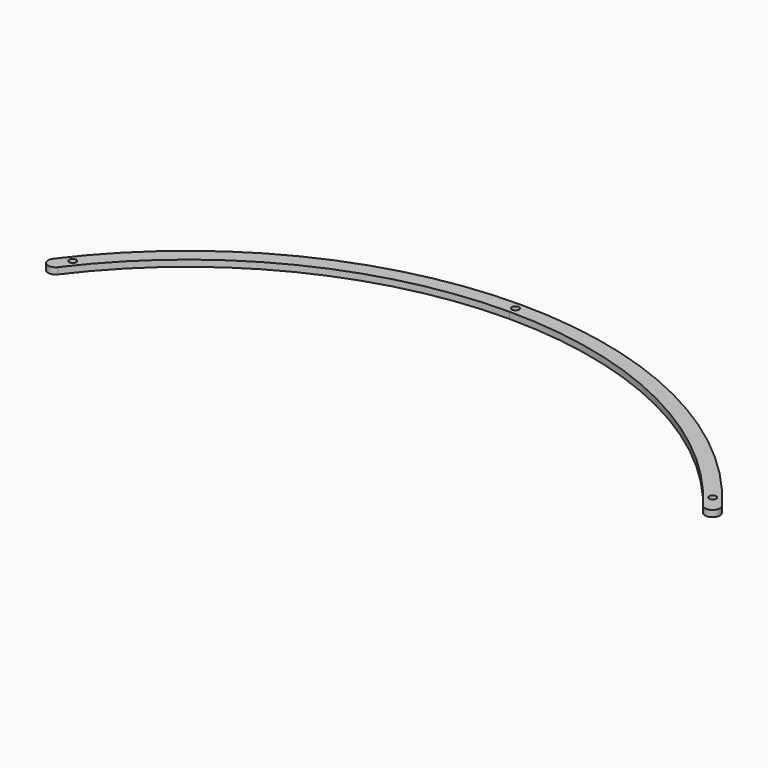
from build123d import *

# Parameters (mm, degrees)
PAD015_DEPTH                        = 3
SKETCH054_R                         = 1.65
POCKET018_DEPTH                     = 358.938883
POCKET018_DEPTH_BACK                = 361.938883
BODY001003005003004_PLACEMENT_ANGLE = 60
CLONE025_PLACEMENT_ANGLE            = 60


with BuildPart() as part:
    # Sketch053 → Pad015 (new body)
    with BuildSketch(Plane.XY):
        with BuildLine():
            ThreePointArc((152.005097, 113.785532), (84.992984, 169.790723), (0, 189.875477))
            Line((0, 189.875477), (0, 196.875477))
            ThreePointArc((157.608957, 117.98038), (88.126358, 176.050273), (0, 196.875477))
            ThreePointArc((152.005097, 113.785532), (156.904451, 113.081026), (157.608957, 117.98038))
        make_face()
    pad015 = extrude(amount=PAD015_DEPTH)

    # Sketch054 → Pocket018 (cut, two sides)
    with BuildSketch(Plane.XY) as pocket018_sk:
        with Locations((150.82443, 121.020933)):
            Circle(SKETCH054_R)
        with BuildLine():
            ThreePointArc((0, 191.725477), (1.65, 193.375477), (0, 195.025477))
            Line((0, 191.725477), (0, 195.025477))
        make_face()
    pocket018 = extrude(amount=-POCKET018_DEPTH, mode=Mode.SUBTRACT) + extrude(pocket018_sk.sketch, amount=POCKET018_DEPTH_BACK, mode=Mode.SUBTRACT)

    # Mirrored020: Pad015, Pocket018 across Sketch053 V_Axis
    add(pad015.mirror(Plane(origin=(0, 0, 0), x_dir=(0, 0, 1), z_dir=(1, 0, 0))))
    add(pocket018.mirror(Plane(origin=(0, 0, 0), x_dir=(0, 0, 1), z_dir=(1, 0, 0))), mode=Mode.SUBTRACT)


with BuildPart() as part_1:
    # Body001003005003004 placement: moved
    add(part.part.rotate(Axis((0, 0, 0), (0, 0, 1)), BODY001003005003004_PLACEMENT_ANGLE))


with BuildPart() as part_2:
    # Clone025 placement: moved
    add(part_1.part.moved(Location((0, 7, 0))).rotate(Axis((0, 7, 0), (0, 0, -1)), CLONE025_PLACEMENT_ANGLE))


solid = part_2.part
